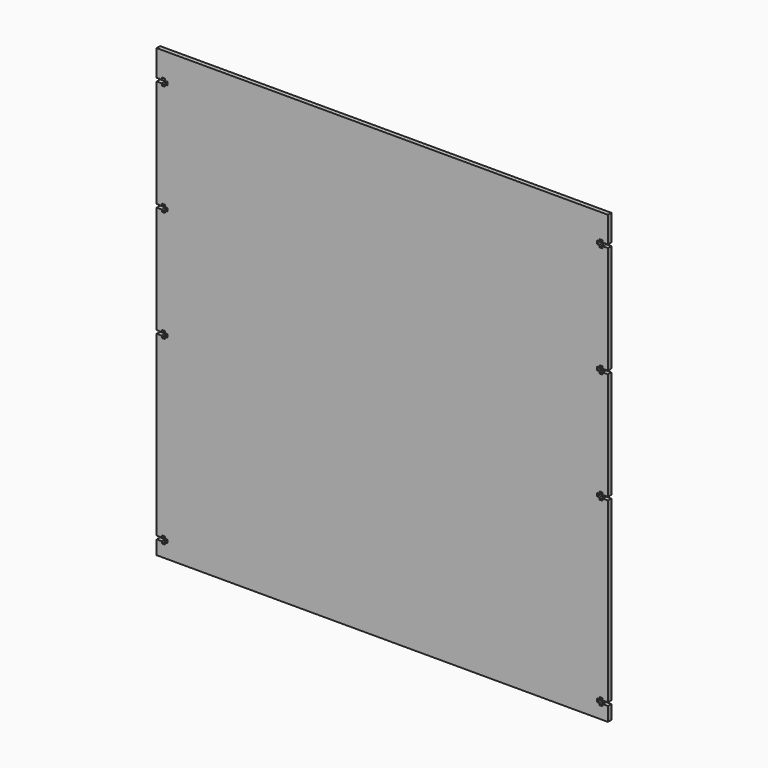
from build123d import *

# Parameters (mm, degrees)
F0_W     = 412.75
F0_H     = 408.38501
F1_DEPTH = 3.937
F2_W     = 3.175
F2_H     = 2.9464
F3_DEPTH = 3.937


with BuildPart() as f1:
    # F0 (on Front) → F1 (new body)
    with BuildSketch(Plane.XZ):
        Rectangle(F0_W, F0_H)
    extrude(amount=F1_DEPTH)

    # F2 (on face) → F3 (cut, through all)
    with BuildSketch(Plane.XZ.offset(3.937)):
        Polygon((-203.2, 180.265705), (-203.2, 177.319305), (-201.5998, 177.319305), (-201.5998, 175.458755), (-198.567675, 175.458755), (-198.567675, 177.319305), (-196.342, 177.319305), (-196.342, 178.792505), (-196.342, 180.265705), (-198.567675, 180.265705), (-198.567675, 182.126255), (-201.5998, 182.126255), (-201.5998, 180.265705), align=None)
        with Locations((-204.7875, 178.792505)):
            Rectangle(F2_W, F2_H)
        Polygon((-198.567675, 80.526255), (-201.5998, 80.526255), (-201.5998, 78.665705), (-203.2, 78.665705), (-203.2, 75.719305), (-201.5998, 75.719305), (-201.5998, 73.858755), (-198.567675, 73.858755), (-198.567675, 75.719305), (-196.342, 75.719305), (-196.342, 77.192505), (-196.342, 78.665705), (-198.567675, 78.665705), align=None)
        with Locations((-204.7875, 77.192505)):
            Rectangle(F2_W, F2_H)
        Polygon((-198.567675, -21.073745), (-201.5998, -21.073745), (-201.5998, -22.934295), (-203.2, -22.934295), (-203.2, -25.880695), (-201.5998, -25.880695), (-201.5998, -27.741245), (-198.567675, -27.741245), (-198.567675, -25.880695), (-196.342, -25.880695), (-196.342, -24.407495), (-196.342, -22.934295), (-198.567675, -22.934295), align=None)
        with Locations((-204.7875, -24.407495)):
            Rectangle(F2_W, F2_H)
        Polygon((-203.2, -188.431805), (-203.2, -191.378205), (-201.5998, -191.378205), (-201.5998, -193.238755), (-198.567675, -193.238755), (-198.567675, -191.378205), (-196.342, -191.378205), (-196.342, -189.905005), (-196.342, -188.431805), (-198.567675, -188.431805), (-198.567675, -186.571255), (-201.5998, -186.571255), (-201.5998, -188.431805), align=None)
        with Locations((-204.7875, -189.905005)):
            Rectangle(F2_W, F2_H)
        with Locations((204.7875, 178.792505)):
            Rectangle(F2_W, F2_H)
        Polygon((203.2, 177.319305), (203.2, 180.265705), (201.5998, 180.265705), (201.5998, 182.126255), (198.567675, 182.126255), (198.567675, 180.265705), (196.342, 180.265705), (196.342, 178.792505), (196.342, 177.319305), (198.567675, 177.319305), (198.567675, 175.458755), (201.5998, 175.458755), (201.5998, 177.319305), align=None)
        Polygon((198.567675, -188.431805), (196.342, -188.431805), (196.342, -189.905005), (196.342, -191.378205), (198.567675, -191.378205), (198.567675, -193.238755), (201.5998, -193.238755), (201.5998, -191.378205), (203.2, -191.378205), (203.2, -188.431805), (201.5998, -188.431805), (201.5998, -186.571255), (198.567675, -186.571255), align=None)
        with Locations((204.7875, -189.905005)):
            Rectangle(F2_W, F2_H)
        Polygon((196.342, 75.719305), (198.567675, 75.719305), (198.567675, 73.858755), (201.5998, 73.858755), (201.5998, 75.719305), (203.2, 75.719305), (203.2, 78.665705), (201.5998, 78.665705), (201.5998, 80.526255), (198.567675, 80.526255), (198.567675, 78.665705), (196.342, 78.665705), (196.342, 77.192505), align=None)
        with Locations((204.7875, 77.192505)):
            Rectangle(F2_W, F2_H)
        Polygon((198.567675, -21.073745), (198.567675, -22.934295), (196.342, -22.934295), (196.342, -24.407495), (196.342, -25.880695), (198.567675, -25.880695), (198.567675, -27.741245), (201.5998, -27.741245), (201.5998, -25.880695), (203.2, -25.880695), (203.2, -22.934295), (201.5998, -22.934295), (201.5998, -21.073745), align=None)
        with Locations((204.7875, -24.407495)):
            Rectangle(F2_W, F2_H)
    extrude(amount=-F3_DEPTH, mode=Mode.SUBTRACT)


solid = f1.part
